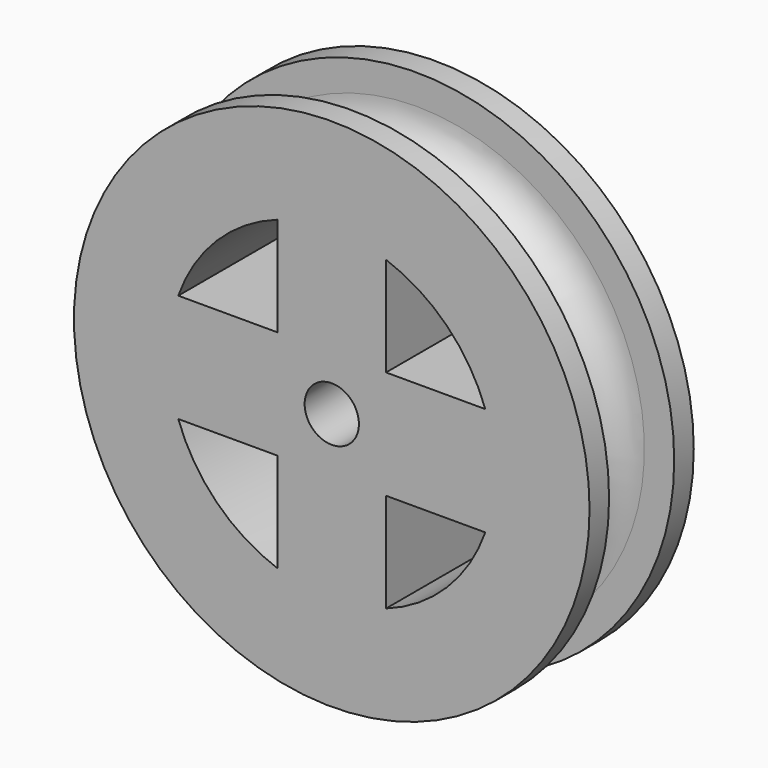
from build123d import *

# Parameters (mm, degrees)
F0_R     = 23.75
F0_W     = 10
F0_H     = 10
F3_DEPTH = 6
F5_R     = 2.5
F6_DEPTH = 12.5


with BuildPart() as f3:
    # F0 (on Front) → F3 (new body, symmetric)
    with BuildSketch(Plane.XZ):
        Circle(F0_R)
        with BuildLine():
            ThreePointArc((14.1421356237, 5), (14.7839783948, 2.5365296809), (15, 0))
            ThreePointArc((15, 0), (14.7839783948, -2.5365296809), (14.1421356237, -5))
            ThreePointArc((14.1421356237, -5), (10.6066017178, -10.6066017178), (5, -14.1421356237))
            ThreePointArc((5, -14.1421356237), (0, -15), (-5, -14.1421356237))
            ThreePointArc((-5, -14.1421356237), (-10.6066017178, -10.6066017178), (-14.1421356237, -5))
            ThreePointArc((-14.1421356237, -5), (-15, 0), (-14.1421356237, 5))
            ThreePointArc((-14.1421356237, 5), (-10.6066017178, 10.6066017178), (-5, 14.1421356237))
            ThreePointArc((-5, 14.1421356237), (0, 15), (5, 14.1421356237))
            ThreePointArc((5, 14.1421356237), (10.6066017178, 10.6066017178), (14.1421356237, 5))
        make_face(mode=Mode.SUBTRACT)
        with BuildLine():
            Line((5, 5), (5, 14.1421356237))
            ThreePointArc((5, 14.1421356237), (0, 15), (-5, 14.1421356237))
            Line((-5, 14.1421356237), (-5, 5))
            Line((-5, 5), (5, 5))
        make_face()
        with BuildLine():
            ThreePointArc((14.1421356237, -5), (14.7839783948, -2.5365296809), (15, 0))
            ThreePointArc((15, 0), (14.7839783948, 2.5365296809), (14.1421356237, 5))
            Line((14.1421356237, 5), (5, 5))
            Line((5, 5), (5, -5))
            Line((5, -5), (14.1421356237, -5))
        make_face()
        Rectangle(F0_W, F0_H)
        with BuildLine():
            Line((-5, -5), (-5, 5))
            Line((-5, 5), (-14.1421356237, 5))
            ThreePointArc((-14.1421356237, 5), (-15, 0), (-14.1421356237, -5))
            Line((-14.1421356237, -5), (-5, -5))
        make_face()
        with BuildLine():
            ThreePointArc((-5, -14.1421356237), (0, -15), (5, -14.1421356237))
            Line((5, -14.1421356237), (5, -5))
            Line((5, -5), (-5, -5))
            Line((-5, -5), (-5, -14.1421356237))
        make_face()
    extrude(amount=F3_DEPTH, both=True)

    # F1 (on Right) → F4 (revolve, cut)
    with BuildSketch(Plane.YZ):
        with BuildLine():
            Line((3.75, 21), (3.75, 25))
            Line((3.75, 25), (-3.75, 25))
            Line((-3.75, 25), (-3.75, 21))
            ThreePointArc((-3.75, 21), (-2.7248737342, 18.5251262658), (-0.25, 17.5))
            Line((-0.25, 17.5), (0.25, 17.5))
            ThreePointArc((0.25, 17.5), (2.7248737342, 18.5251262658), (3.75, 21))
        make_face()
    revolve(axis=Axis((0, -2.0112972707, 0), (0, -1, 0)), mode=Mode.SUBTRACT)

    # F5 (on Front) → F6 (cut, symmetric)
    with BuildSketch(Plane.XZ):
        Circle(F5_R)
    extrude(amount=F6_DEPTH, both=True, mode=Mode.SUBTRACT)


solid = f3.part
